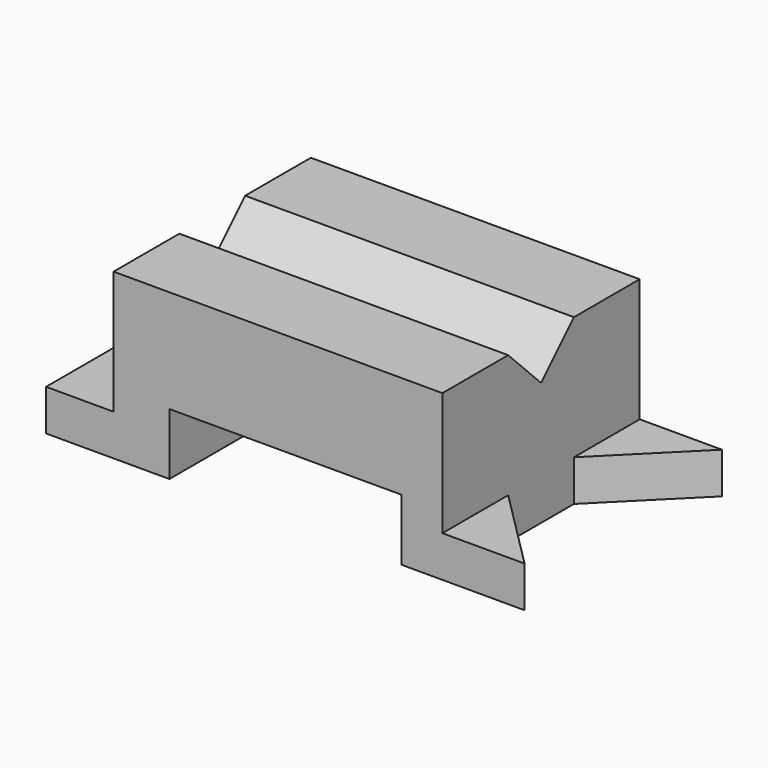
from build123d import *

# Parameters (mm, degrees)
F0_W     = 20.847595
F0_H     = 76.2
F1_DEPTH = 12.7
F2_DEPTH = 50.8
F3_DEPTH = 12.7
F4_DEPTH = 12.7
F6_DEPTH = 122.448595
F7_W     = 71.647595
F7_H     = 19.05
F8_DEPTH = 101.6


with BuildPart() as f1:
    # F0 (on Top) → F1 (new body)
    with BuildSketch(Plane.XY):
        with Locations((-62.286463, 12.7)):
            Rectangle(F0_W, F0_H)
    extrude(amount=F1_DEPTH)

    # F0 (on Top) → F2 (join)
    with BuildSketch(Plane.XY):
        Polygon((49.737334, 50.8), (-51.862666, 50.8), (-51.862666, -25.4), (49.737334, -25.4), (49.737334, 0), (49.737334, 25.4), align=None)
    extrude(amount=F2_DEPTH)

    # F0 (on Top) → F3 (join)
    with BuildSketch(Plane.XY):
        Polygon((75.137334, 50.8), (49.737334, 50.8), (49.737334, 25.4), align=None)
    extrude(amount=F3_DEPTH)

    # F0 (on Top) → F4 (join)
    with BuildSketch(Plane.XY):
        Polygon((49.737334, 0), (49.737334, -25.4), (75.137334, -25.4), align=None)
    extrude(amount=F4_DEPTH)

    # F5 (on face) → F6 (cut, through all)
    with BuildSketch(Plane.YZ.offset(49.737334)):
        Polygon((25.4, 50.8), (0, 50.8), (12.7, 38.1), align=None)
    extrude(amount=-F6_DEPTH, mode=Mode.SUBTRACT)

    # F7 (on face) → F8 (cut)
    with BuildSketch(Plane(origin=(0, 50.8, 0), x_dir=(-1, 0, 0), z_dir=(0, 1, 0))):
        with Locations((-1.213537, 9.525)):
            Rectangle(F7_W, F7_H)
    extrude(amount=-F8_DEPTH, mode=Mode.SUBTRACT)


solid = f1.part
